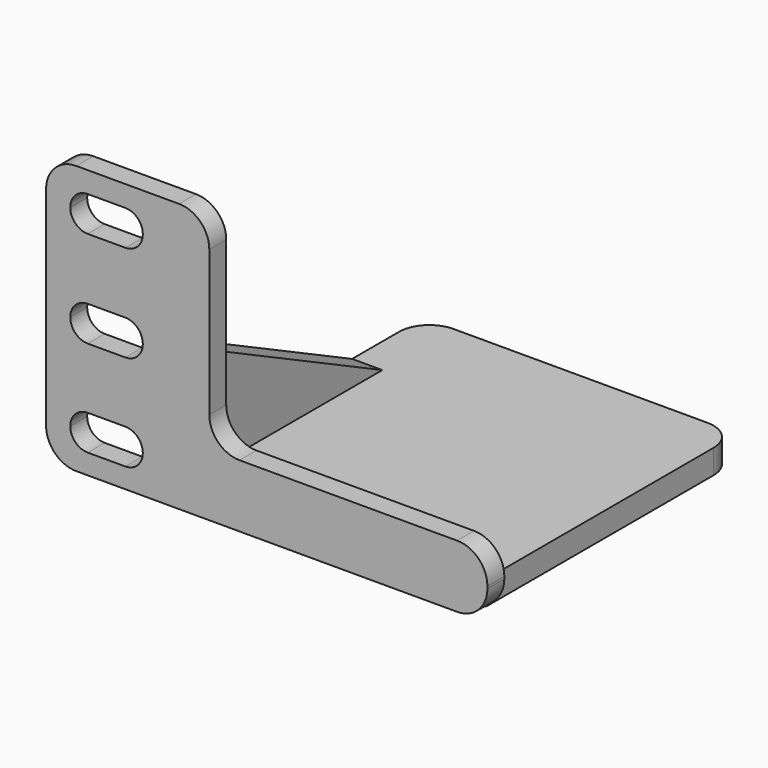
from build123d import *

# Parameters (mm, degrees)
SKETCH001_W      = 52
SKETCH001_H      = 4
EXTRUDE001_DEPTH = 52
FILLET001_R      = 5
EXTRUDE002_DEPTH = 5
SKETCH_W         = 12
SKETCH_H         = 5.8
EXTRUDE_DEPTH    = 3.5
FILLET_R         = 5
FILLET002_R      = 2.89


with BuildPart() as holder:
    # Sketch001 → Extrude001 (new body)
    with BuildSketch(Plane(origin=(0, 0, 0), x_dir=(-1, 0, 0), z_dir=(0, 1, 0))):
        with Locations((-7.5, -20.224)):
            Rectangle(SKETCH001_W, SKETCH001_H)
    extrude(amount=EXTRUDE001_DEPTH)

    # Fillet001
    fillet001_edges = [holder.edges().sort_by_distance(p)[0] for p in [
        (-18.5, 52, -20.224),
        (33.5, 52, -20.224),
    ]]
    fillet(fillet001_edges, radius=FILLET001_R)


with BuildPart() as brace:
    # Sketch002 (on Face6 of Fillet001) → Extrude002 (new body)
    with BuildSketch(Plane(origin=(-18.5, 0, 0), x_dir=(0, -1, 0), z_dir=(-1, 0, 0))):
        Polygon((0, 0), (0, -18.23), (-37.281592, -18.23), align=None)
    extrude(amount=-EXTRUDE002_DEPTH)


with BuildPart() as round_inner:
    # Sketch → Extrude (new body)
    with BuildSketch(Plane.XZ):
        Polygon((-9.5, 22.225), (-9.5, -11.855), (36.5, -11.855), (36.5, -22.225), (-36.5, -22.225), (-36.5, 22.225), align=None)
        with Locations((-26.5, 15.845)):
            Rectangle(SKETCH_W, SKETCH_H, mode=Mode.SUBTRACT)
        with Locations((-26.5, -0.13)):
            Rectangle(SKETCH_W, SKETCH_H, mode=Mode.SUBTRACT)
        with Locations((-26.5, -16.005)):
            Rectangle(SKETCH_W, SKETCH_H, mode=Mode.SUBTRACT)
    extrude(amount=EXTRUDE_DEPTH)

    # Fillet
    fillet_edges = [round_inner.edges().sort_by_distance(p)[0] for p in [
        (-9.5, -1.75, 22.225),
        (-9.5, -1.75, -11.855),
        (36.5, -1.75, -11.855),
        (36.5, -1.75, -22.225),
        (-36.5, -1.75, -22.225),
        (-36.5, -1.75, 22.225),
    ]]
    fillet(fillet_edges, radius=FILLET_R)

    # Fillet002
    fillet002_edges = [round_inner.edges().sort_by_distance(p)[0] for p in [
        (-32.5, -1.75, -13.105),
        (-20.5, -1.75, -13.105),
        (-20.5, -1.75, -18.905),
        (-32.5, -1.75, -18.905),
        (-32.5, -1.75, 2.77),
        (-20.5, -1.75, 2.77),
        (-20.5, -1.75, -3.03),
        (-32.5, -1.75, -3.03),
        (-32.5, -1.75, 18.745),
        (-20.5, -1.75, 18.745),
        (-20.5, -1.75, 12.945),
        (-32.5, -1.75, 12.945),
    ]]
    fillet(fillet002_edges, radius=FILLET002_R)


solid = Compound([holder.part, brace.part, round_inner.part])
